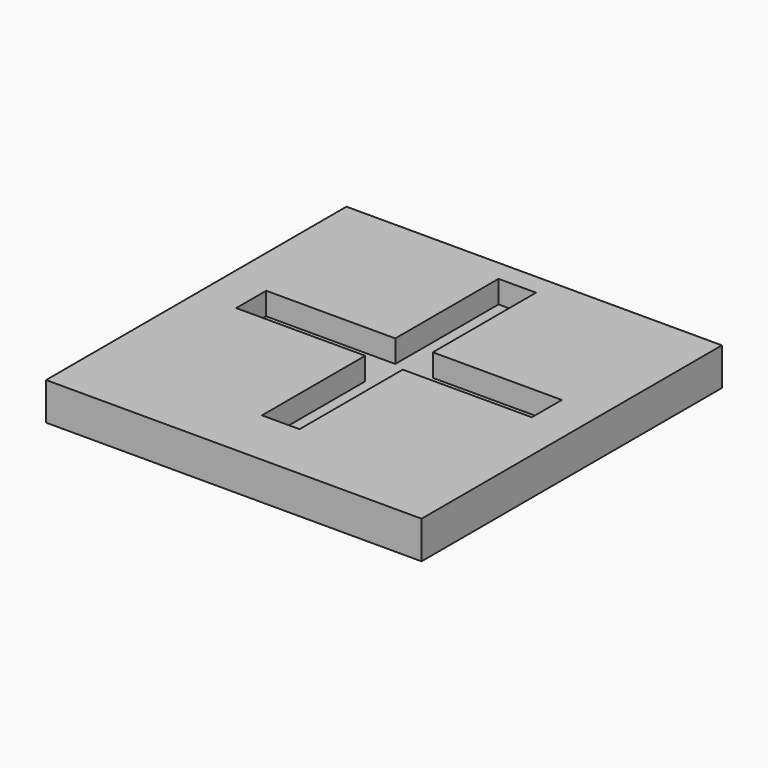
from build123d import *

# Parameters (mm, degrees)
F0_W     = 63.5
F0_H     = 63.5
F1_DEPTH = 6.35
F2_W     = 21.825
F2_H     = 6.35
F2_W_2   = 6.35
F2_H_2   = 21.825
F3_DEPTH = 3.81


with BuildPart() as f1:
    # F0 (on Top) → F1 (new body)
    with BuildSketch(Plane.XY):
        Rectangle(F0_W, F0_H)
    extrude(amount=F1_DEPTH)

    # F2 (on face) → F3 (cut)
    with BuildSketch(Plane.XY.offset(6.35)):
        with Locations((14.0875, 3.175)):
            Rectangle(F2_W, F2_H)
        with Locations((0, -10.9125)):
            Rectangle(F2_W_2, F2_H_2)
        with Locations((0, 3.175)):
            Rectangle(F2_W_2, F2_H)
        with Locations((-14.0875, 3.175)):
            Rectangle(F2_W, F2_H)
        with Locations((0, 17.2625)):
            Rectangle(F2_W_2, F2_H_2)
    extrude(amount=-F3_DEPTH, mode=Mode.SUBTRACT)


solid = f1.part
